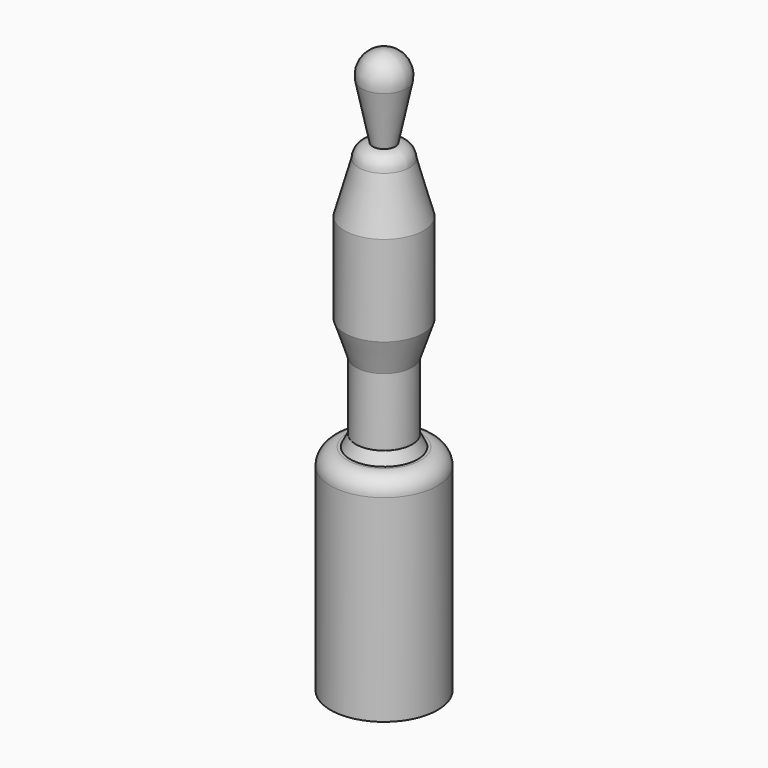
from build123d import *


with BuildPart() as f1:
    # F0 (on Front) → F1 (revolve)
    with BuildSketch(Plane.XZ):
        with BuildLine():
            Line((1.999999, -14.5), (4, -4.807499))
            ThreePointArc((4, -4.807499), (3.15738, -1.440771), (0, 0))
            Line((0, 0), (0, -100))
            Line((0, -100), (9.5, -100))
            Line((9.5, -100), (9.5, -65))
            ThreePointArc((9.5, -65), (8.62132, -62.87868), (6.5, -62))
            Line((6.5, -62), (6, -62))
            Line((6, -62), (5, -60))
            Line((5, -60), (5, -48))
            Line((5, -48), (7, -42))
            Line((7, -42), (7, -26))
            Line((7, -26), (4.5, -17))
            ThreePointArc((4.5, -17), (3.767767, -15.232233), (1.999999, -14.5))
        make_face()
    revolve(axis=Axis((0, 0, -50), (0, 0, 1)))


solid = f1.part
